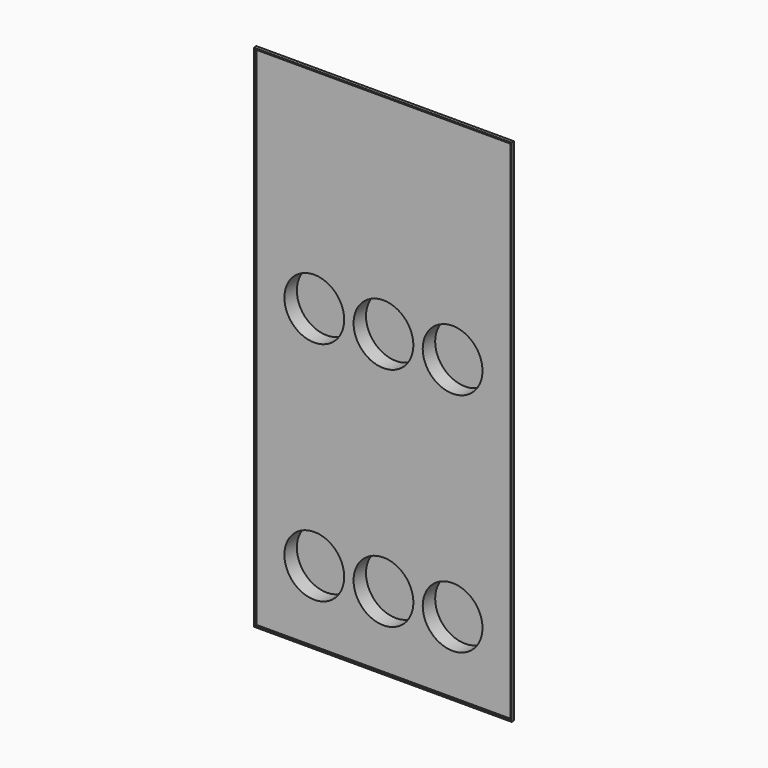
from build123d import *

# Parameters (mm, degrees)
F0_W     = 82.7734842896
F0_H     = 163.7785583735
F1_DEPTH = 1
F2_R     = 10
F3_DEPTH = 5
F4_T     = -0.4


with BuildPart() as f1:
    # F0 (on Front) → F1 (new body)
    with BuildSketch(Plane.XZ):
        with Locations((41.3867421448, 81.8892791867)):
            Rectangle(F0_W, F0_H)
    extrude(amount=F1_DEPTH)

    # F2 (on face) → F3 (join)
    with BuildSketch(Plane(origin=(0, 0, 0), x_dir=(-1, 0, 0), z_dir=(0, 1, 0))):
        with Locations((-18.917247653, 23.1196433306)):
            Circle(F2_R)
        with Locations((-18.917247653, 95.850430429)):
            Circle(F2_R)
        with Locations((-41.1302503198, 23.1196433306)):
            Circle(F2_R)
        with Locations((-41.1302503198, 95.850430429)):
            Circle(F2_R)
        with Locations((-63.3432529867, 23.1196433306)):
            Circle(F2_R)
        with Locations((-63.3432529867, 95.850430429)):
            Circle(F2_R)
    extrude(amount=F3_DEPTH)

    # F4
    f4_openings = [f1.faces().sort_by_distance(p)[0] for p in [
        (41.386742, -1, 81.889279),
    ]]
    offset(amount=F4_T, openings=f4_openings, kind=Kind.INTERSECTION)


solid = f1.part
